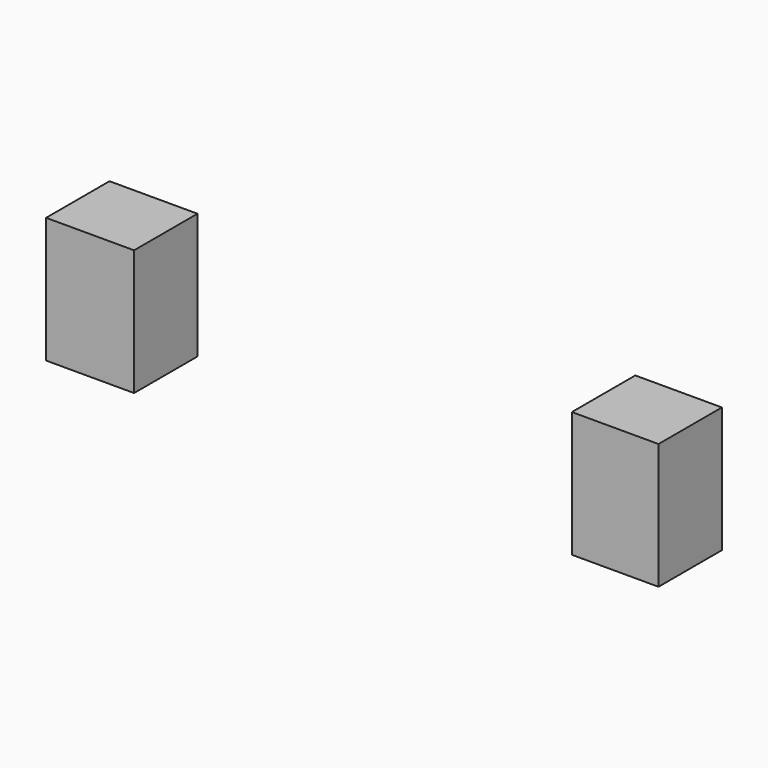
from build123d import *

# Parameters (mm, degrees)
F0_W     = 17.784864
F0_H     = 16.018659
F0_W_2   = 17.506168
F1_DEPTH = 25.4


with BuildPart() as f1:
    # F0 (on Top) → F1 (new body)
    with BuildSketch(Plane.XY):
        with Locations((-60.740821, 8.009329)):
            Rectangle(F0_W, F0_H)
        with Locations((45.380257, 8.009329)):
            Rectangle(F0_W_2, F0_H)
    extrude(amount=F1_DEPTH)


solid = f1.part
